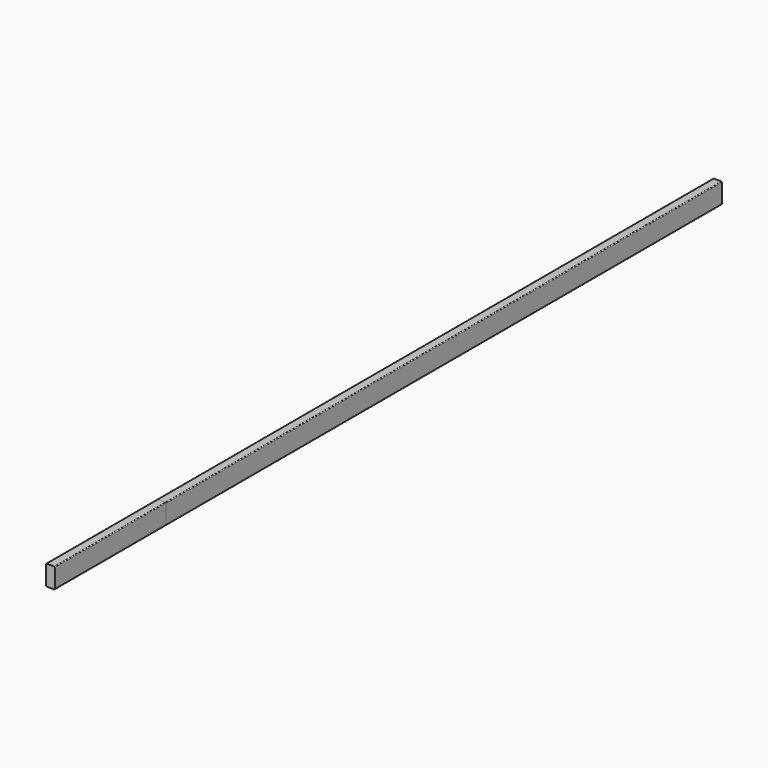
from build123d import *

# Parameters (mm, degrees)
F1_DEPTH = 3657.6
F2_DEPTH = 1143
F3_DEPTH = 3048


with BuildPart() as f1:
    # F0 (on Front) → F1 (new body)
    with BuildSketch(Plane.XZ):
        with BuildLine():
            Line((15.875, 44.45), (-15.875, 44.45))
            ThreePointArc((-15.875, 44.45), (-18.120064, 43.520064), (-19.05, 41.275))
            Line((-19.05, 41.275), (-19.05, -41.275))
            ThreePointArc((-19.05, -41.275), (-18.120064, -43.520064), (-15.875, -44.45))
            Line((-15.875, -44.45), (15.875, -44.45))
            ThreePointArc((15.875, -44.45), (18.120064, -43.520064), (19.05, -41.275))
            Line((19.05, -41.275), (19.05, 41.275))
            ThreePointArc((19.05, 41.275), (18.120064, 43.520064), (15.875, 44.45))
        make_face()
    extrude(amount=F1_DEPTH)


with BuildPart() as f2:
    # F0 (on Front) → F2 (new body)
    with BuildSketch(Plane.XZ):
        with BuildLine():
            Line((15.875, 44.45), (-15.875, 44.45))
            ThreePointArc((-15.875, 44.45), (-18.120064, 43.520064), (-19.05, 41.275))
            Line((-19.05, 41.275), (-19.05, -41.275))
            ThreePointArc((-19.05, -41.275), (-18.120064, -43.520064), (-15.875, -44.45))
            Line((-15.875, -44.45), (15.875, -44.45))
            ThreePointArc((15.875, -44.45), (18.120064, -43.520064), (19.05, -41.275))
            Line((19.05, -41.275), (19.05, 41.275))
            ThreePointArc((19.05, 41.275), (18.120064, 43.520064), (15.875, 44.45))
        make_face()
    extrude(amount=F2_DEPTH)


with BuildPart() as f3:
    # F0 (on Front) → F3 (new body)
    with BuildSketch(Plane.XZ):
        with BuildLine():
            Line((15.875, 44.45), (-15.875, 44.45))
            ThreePointArc((-15.875, 44.45), (-18.120064, 43.520064), (-19.05, 41.275))
            Line((-19.05, 41.275), (-19.05, -41.275))
            ThreePointArc((-19.05, -41.275), (-18.120064, -43.520064), (-15.875, -44.45))
            Line((-15.875, -44.45), (15.875, -44.45))
            ThreePointArc((15.875, -44.45), (18.120064, -43.520064), (19.05, -41.275))
            Line((19.05, -41.275), (19.05, 41.275))
            ThreePointArc((19.05, 41.275), (18.120064, 43.520064), (15.875, 44.45))
        make_face()
    extrude(amount=F3_DEPTH)


solid = Compound([f1.part, f2.part, f3.part])
